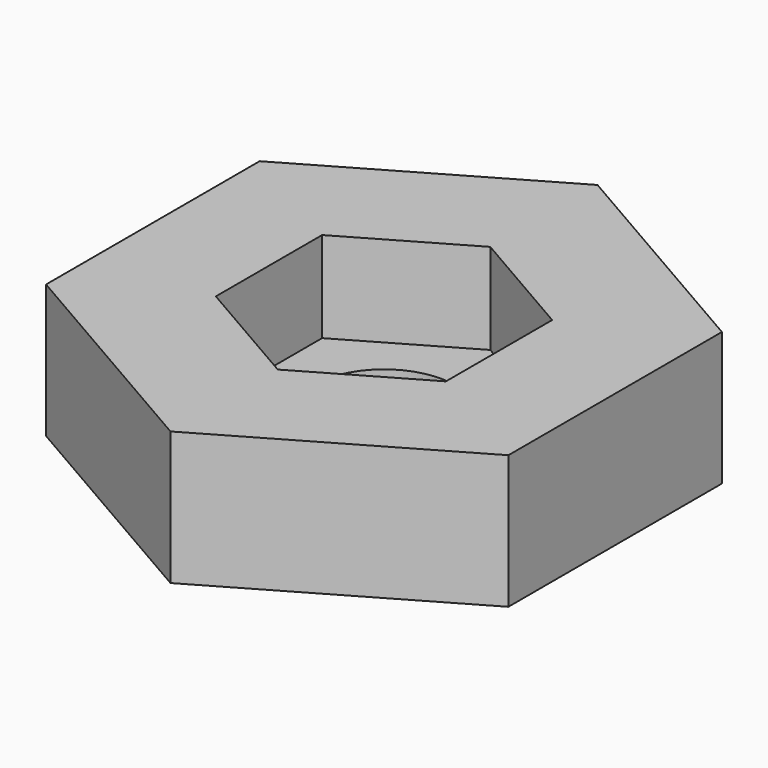
from build123d import *

# Parameters (mm, degrees)
F0_R     = 3.2385
F1_DEPTH = 6.35
F3_DEPTH = 4.318
F4_D     = 6.7564


with BuildPart() as f1:
    # F0 (on Top) → F1 (new body)
    with BuildSketch(Plane.XY):
        Polygon((0, -12.7), (10.9985226281, -6.35), (10.9985226281, 6.35), (0, 12.7), (-10.9985226281, 6.35), (-10.9985226281, -6.35), align=None)
        Polygon((0, 6.3204843369), (5.4737, 3.1602421685), (5.4737, -3.1602421685), (0, -6.3204843369), (-5.4737, -3.1602421685), (-5.4737, 3.1602421685), align=None, mode=Mode.SUBTRACT)
        Polygon((5.4737, -3.1602421685), (5.4737, 3.1602421685), (0, 6.3204843369), (-5.4737, 3.1602421685), (-5.4737, -3.1602421685), (0, -6.3204843369), align=None)
        Circle(F0_R, mode=Mode.SUBTRACT)
        Circle(F0_R)
    extrude(amount=F1_DEPTH)

    # F2 (on face) → F3 (cut)
    with BuildSketch(Plane.XY.offset(6.35)):
        Polygon((0, 6.3204843369), (-5.4737, 3.1602421685), (-5.4737, -3.1602421685), (0, -6.3204843369), (5.4737, -3.1602421685), (5.4737, 3.1602421685), align=None)
    extrude(amount=-F3_DEPTH, mode=Mode.SUBTRACT)

    # F4 (through all)
    with Locations(Plane(origin=(0, 0, 0), x_dir=(1, 0, 0), z_dir=(0, 0, -1))):
        with Locations((0, 0)):
            Hole(F4_D / 2)


solid = f1.part
